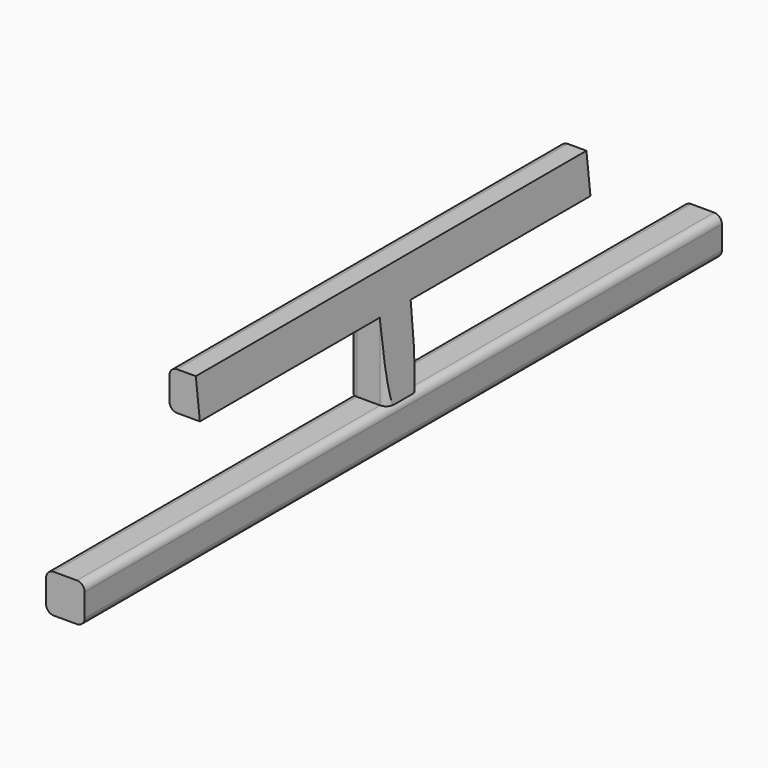
from build123d import *

# Parameters (mm, degrees)
F1_DEPTH = 3100
F3_START = -600
F3_DEPTH = 1900
F5_DEPTH = 300
F7_DEPTH = 3500


with BuildPart() as f1:
    # F0 (on Front) → F1 (new body)
    with BuildSketch(Plane.XZ):
        with BuildLine():
            ThreePointArc((75, 45), (66.2132034356, 66.2132034356), (45, 75))
            Line((45, 75), (-45, 75))
            ThreePointArc((-45, 75), (-66.2132034356, 66.2132034356), (-75, 45))
            Line((-75, 45), (-75, -45))
            ThreePointArc((-75, -45), (-66.2132034356, -66.2132034356), (-45, -75))
            Line((-45, -75), (45, -75))
            ThreePointArc((45, -75), (66.2132034356, -66.2132034356), (75, -45))
            Line((75, -45), (75, 45))
        make_face()
    extrude(amount=F1_DEPTH)



with BuildPart() as f3:
    # F2 (on face) → F3 (new body)
    with BuildSketch(Plane(origin=(0, 0, 0), x_dir=(-1, 0, 0), z_dir=(0, 1, 0)).offset(F3_START)):
        with BuildLine():
            ThreePointArc((75, 495), (66.2132034356, 516.2132034356), (45, 525))
            Line((45, 525), (-45, 525))
            ThreePointArc((-45, 525), (-66.2132034356, 516.2132034356), (-75, 495))
            Line((-75, 495), (-75, 405))
            ThreePointArc((-75, 405), (-66.2132034356, 383.7867965644), (-45, 375))
            Line((-45, 375), (45, 375))
            ThreePointArc((45, 375), (66.2132034356, 383.7867965644), (75, 405))
            Line((75, 405), (75, 495))
        make_face()
    extrude(amount=-F3_DEPTH)


with BuildPart() as f1_1:
    add(f1.part)

    add(f3.part)  # F5 merges F3
    # F4 (on face) → F5 (join, through all)
    with BuildSketch(Plane.XY.offset(75)):
        with BuildLine():
            ThreePointArc((-75, -1595), (-66.2132034356, -1616.2132034356), (-45, -1625))
            Line((-45, -1625), (45, -1625))
            ThreePointArc((45, -1625), (66.2132034356, -1616.2132034356), (75, -1595))
            Line((75, -1595), (75, -1505))
            ThreePointArc((75, -1505), (66.2132034356, -1483.7867965644), (45, -1475))
            Line((45, -1475), (-45, -1475))
            ThreePointArc((-45, -1475), (-66.2132034356, -1483.7867965644), (-75, -1505))
            Line((-75, -1505), (-75, -1595))
        make_face()
    extrude(amount=F5_DEPTH)

    # F6 (on face) → F7 (cut)
    with BuildSketch(Plane(origin=(0, 0, 0), x_dir=(-1, 0, 0), z_dir=(0, 1, 0))):
        Polygon((-75, 75), (-27.7030941304, 525), (-204.0130716196, 525), (-204.0130716196, 75), align=None)
    extrude(amount=-F7_DEPTH, mode=Mode.SUBTRACT)


solid = f1_1.part
